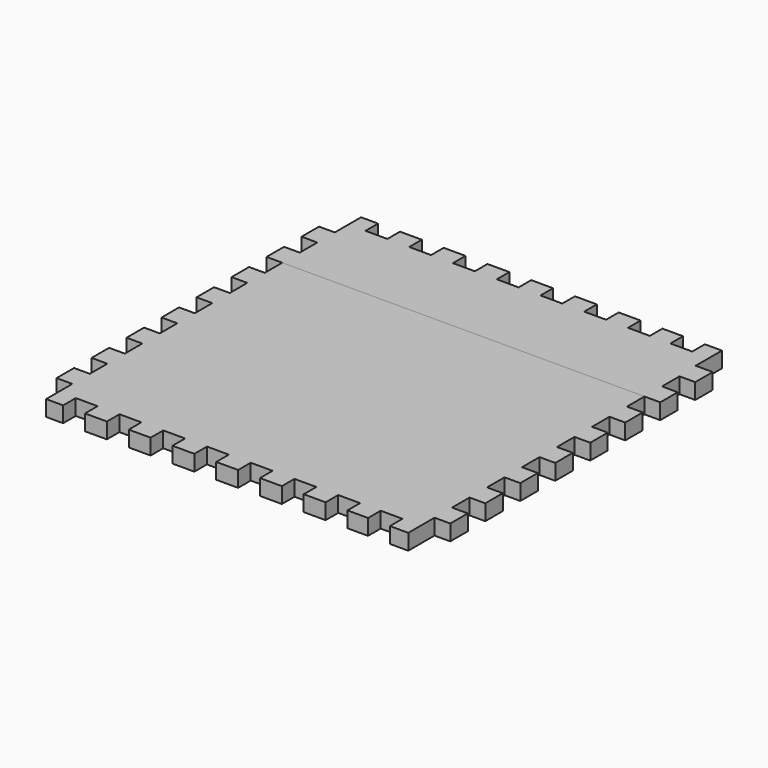
from build123d import *

# Parameters (mm, degrees)
F1_DEPTH = 9.144
F2_DEPTH = 9.144


with BuildPart() as f1:
    # F0 (on Top) → F1 (new body)
    with BuildSketch(Plane.XY):
        Polygon((19.05, 0), (9.144, 0), (9.144, -19.05), (0, -19.05), (0, -31.75), (9.144, -31.75), (9.144, -44.45), (0, -44.45), (0, -57.15), (9.144, -57.15), (219.456, -57.15), (228.6, -57.15), (228.6, -44.45), (219.456, -44.45), (219.456, -31.75), (228.6, -31.75), (228.6, -19.05), (218.694, -19.05), (218.694, 0), (208.788, 0), (208.788, -9.144), (196.088, -9.144), (196.088, 0), (184.15, 0), (184.15, -9.144), (171.45, -9.144), (171.45, 0), (158.75, 0), (158.75, -9.144), (146.05, -9.144), (146.05, 0), (133.35, 0), (133.35, -9.144), (120.65, -9.144), (120.65, 0), (107.95, 0), (107.95, -9.144), (95.25, -9.144), (95.25, 0), (82.55, 0), (82.55, -9.144), (69.85, -9.144), (69.85, 0), (57.15, 0), (57.15, -9.144), (44.45, -9.144), (44.45, 0), (31.75, 0), (31.75, -9.144), (19.05, -9.144), align=None)
    extrude(amount=F1_DEPTH)


with BuildPart() as f2:
    # F0 (on Top) → F2 (new body)
    with BuildSketch(Plane.XY):
        Polygon((219.456, -57.15), (9.144, -57.15), (9.144, -69.85), (0, -69.85), (0, -82.55), (9.144, -82.55), (9.144, -95.25), (0, -95.25), (0, -107.95), (9.144, -107.95), (9.144, -120.65), (0, -120.65), (0, -133.35), (9.144, -133.35), (9.144, -146.05), (0, -146.05), (0, -158.75), (9.144, -158.75), (9.144, -171.45), (0, -171.45), (0, -184.15), (9.144, -184.15), (9.144, -196.85), (0, -196.85), (0, -209.55), (9.144, -209.55), (9.144, -228.6), (19.05, -228.6), (19.05, -219.456), (31.75, -219.456), (31.75, -228.6), (44.45, -228.6), (44.45, -219.456), (57.15, -219.456), (57.15, -228.6), (69.85, -228.6), (69.85, -219.456), (82.55, -219.456), (82.55, -228.6), (95.25, -228.6), (95.25, -219.456), (107.95, -219.456), (107.95, -228.6), (120.65, -228.6), (120.65, -219.456), (133.35, -219.456), (133.35, -228.6), (146.05, -228.6), (146.05, -219.456), (158.75, -219.456), (158.75, -228.6), (171.45, -228.6), (171.45, -219.456), (184.15, -219.456), (184.15, -228.6), (196.088, -228.6), (196.088, -219.456), (208.788, -219.456), (208.788, -228.6), (219.456, -228.6), (219.456, -209.55), (228.6, -209.55), (228.6, -196.85), (219.456, -196.85), (219.456, -184.15), (228.6, -184.15), (228.6, -171.45), (219.456, -171.45), (219.456, -158.75), (228.6, -158.75), (228.6, -146.05), (219.456, -146.05), (219.456, -133.35), (228.6, -133.35), (228.6, -120.65), (219.456, -120.65), (219.456, -107.95), (228.6, -107.95), (228.6, -95.25), (219.456, -95.25), (219.456, -82.55), (228.6, -82.55), (228.6, -69.85), (219.456, -69.85), align=None)
    extrude(amount=F2_DEPTH)


solid = Compound([f1.part, f2.part])
